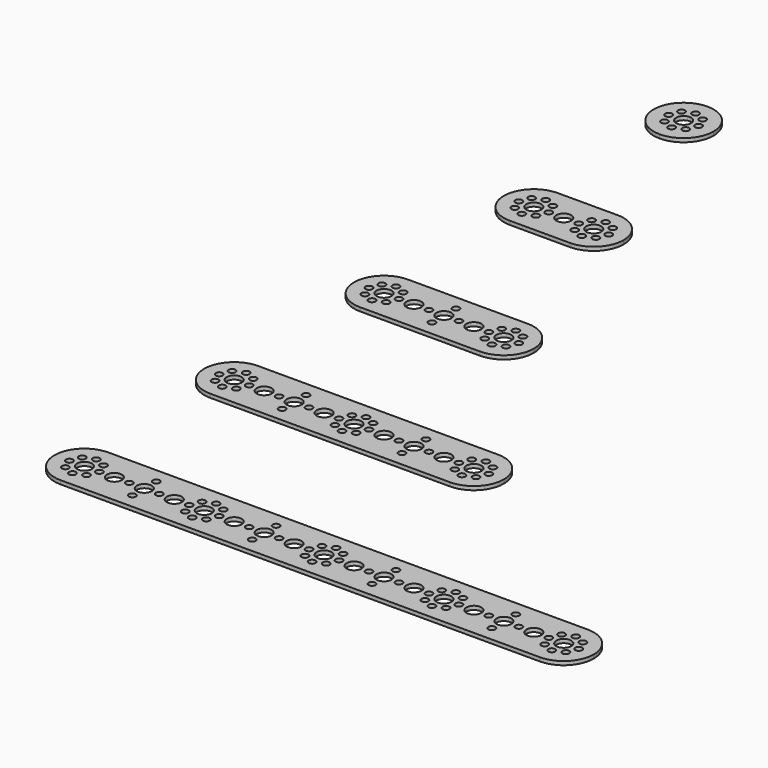
from build123d import *

# Parameters (mm, degrees)
F1_DEPTH  = 2
F3_D      = 8
F4_D      = 3.7
F6_DEPTH  = 2
F8_D      = 3.7
F9_D      = 8
F11_DEPTH = 2
F13_D     = 8
F14_D     = 3.7
F16_DEPTH = 2
F18_D     = 8
F19_D     = 3.7
F21_DEPTH = 2
F23_D     = 8
F24_D     = 3.7


with BuildPart() as f1:
    # F0 (on Top) → F1 (new body)
    with BuildSketch(Plane.XY):
        with BuildLine():
            ThreePointArc((0, -16), (11.313708, -11.313708), (16, 0))
            ThreePointArc((16, 0), (11.313708, 11.313708), (0, 16))
            ThreePointArc((0, 16), (-16, 0), (0, -16))
        make_face()
        with BuildLine():
            ThreePointArc((32, -16), (20.686292, -11.313708), (16, 0))
            ThreePointArc((16, 0), (11.313708, -11.313708), (0, -16))
            Line((0, -16), (32, -16))
        make_face()
        with BuildLine():
            ThreePointArc((0, 16), (11.313708, 11.313708), (16, 0))
            ThreePointArc((16, 0), (20.686292, 11.313708), (32, 16))
            Line((32, 16), (0, 16))
        make_face()
        with BuildLine():
            ThreePointArc((32, 16), (20.686292, 11.313708), (16, 0))
            ThreePointArc((16, 0), (20.686292, -11.313708), (32, -16))
            ThreePointArc((32, -16), (43.313708, -11.313708), (48, 0))
            ThreePointArc((48, 0), (43.313708, 11.313708), (32, 16))
        make_face()
    extrude(amount=F1_DEPTH)

    # F3 (through all)
    with Locations(Plane.XY.offset(2)):
        with Locations((32, 0), (16, 0), (0, 0)):
            Hole(F3_D / 2)

    # F4 (through all)
    with Locations(Plane.XY.offset(2)):
        with Locations((37.656854, -5.656854), (32, -8), (26.343146, -5.656854), (24, 0), (26.343146, 5.656854), (32, 8), (37.656854, 5.656854), (32, 0), (8, 0), (5.656854, 5.656854), (0, 8), (-5.656854, 5.656854), (0, 0), (-5.656854, -5.656854), (0, -8), (5.656854, -5.656854), (40, 0), (-8, 0)):
            Hole(F4_D / 2)


with BuildPart() as f6:
    # F5 (on face) → F6 (new body)
    with BuildSketch(Plane(origin=(0, 0, 0), x_dir=(1, 0, 0), z_dir=(0, 0, -1))):
        with BuildLine():
            ThreePointArc((0, -84), (-11.313708, -111.313708), (16, -100))
            ThreePointArc((16, -100), (11.313708, -88.686292), (0, -84))
        make_face()
    extrude(amount=-F6_DEPTH)

    # F8 (through all)
    with Locations(Plane.XY.offset(2)):
        with Locations((0, 108), (5.656854, 105.656854), (8, 100), (5.656854, 94.343146), (0, 92), (-5.656854, 105.656854), (-8, 100), (-5.656854, 94.343146)):
            Hole(F8_D / 2)

    # F9 (through all)
    with Locations(Plane.XY.offset(2)):
        with Locations((0, 100)):
            Hole(F9_D / 2)


with BuildPart() as f11:
    # F10 (on face) → F11 (new body)
    with BuildSketch(Plane(origin=(0, 0, 0), x_dir=(1, 0, 0), z_dir=(0, 0, -1))):
        with BuildLine():
            ThreePointArc((0, 84), (11.313708, 88.686292), (16, 100))
            ThreePointArc((16, 100), (11.313708, 111.313708), (0, 116))
            ThreePointArc((0, 116), (-16, 100), (0, 84))
        make_face()
        with BuildLine():
            ThreePointArc((0, 116), (11.313708, 111.313708), (16, 100))
            ThreePointArc((16, 100), (11.313708, 88.686292), (0, 84))
            Line((0, 84), (64, 84))
            ThreePointArc((64, 84), (48, 100), (64, 116))
            Line((64, 116), (0, 116))
        make_face()
        with BuildLine():
            ThreePointArc((80, 100), (75.313708, 111.313708), (64, 116))
            ThreePointArc((64, 116), (48, 100), (64, 84))
            ThreePointArc((64, 84), (75.313708, 88.686292), (80, 100))
        make_face()
    extrude(amount=-F11_DEPTH)

    # F13 (through all)
    with Locations(Plane.XY.offset(2)):
        with Locations((0, -100), (16, -100), (32, -100), (64, -100), (48, -100)):
            Hole(F13_D / 2)

    # F14 (through all)
    with Locations(Plane.XY.offset(2)):
        with Locations((-5.656854, -94.343146), (0, -92), (5.656854, -94.343146), (8, -100), (5.656854, -105.656854), (0, -108), (-5.656854, -105.656854), (-8, -100), (24, -100), (32, -92), (32, -108), (40, -100), (56, -100), (58.343146, -105.656854), (64, -108), (69.656854, -105.656854), (72, -100), (69.656854, -94.343146), (64, -92), (58.343146, -94.343146)):
            Hole(F14_D / 2)


with BuildPart() as f16:
    # F15 (on face) → F16 (new body)
    with BuildSketch(Plane(origin=(0, 0, 0), x_dir=(1, 0, 0), z_dir=(0, 0, -1))):
        with BuildLine():
            ThreePointArc((0, 216), (11.313708, 211.313708), (16, 200))
            ThreePointArc((16, 200), (11.313708, 188.686292), (0, 184))
            Line((0, 184), (128, 184))
            ThreePointArc((128, 184), (112, 200), (128, 216))
            Line((128, 216), (0, 216))
        make_face()
        with BuildLine():
            ThreePointArc((0, 184), (11.313708, 188.686292), (16, 200))
            ThreePointArc((16, 200), (11.313708, 211.313708), (0, 216))
            ThreePointArc((0, 216), (-16, 200), (0, 184))
        make_face()
        with BuildLine():
            ThreePointArc((144, 200), (139.313708, 211.313708), (128, 216))
            ThreePointArc((128, 216), (112, 200), (128, 184))
            ThreePointArc((128, 184), (139.313708, 188.686292), (144, 200))
        make_face()
    extrude(amount=-F16_DEPTH)

    # F18 (through all)
    with Locations(Plane.XY.offset(2)):
        with Locations((0, -200), (16, -200), (32, -200), (48, -200), (64, -200), (80, -200), (96, -200), (112, -200), (128, -200)):
            Hole(F18_D / 2)

    # F19 (through all)
    with Locations(Plane.XY.offset(2)):
        with Locations((0, -192), (5.656854, -194.343146), (8, -200), (5.656854, -205.656854), (0, -208), (-5.656854, -205.656854), (-8, -200), (-5.656854, -194.343146), (24, -200), (32, -192), (40, -200), (32, -208), (58.343146, -194.343146), (64, -192), (69.656854, -194.343146), (72, -200), (69.656854, -205.656854), (64, -208), (58.343146, -205.656854), (56, -200), (88, -200), (96, -192), (104, -200), (96, -208), (120, -200), (122.343146, -194.343146), (128, -192), (133.656854, -194.343146), (136, -200), (133.656854, -205.656854), (128, -208), (122.343146, -205.656854)):
            Hole(F19_D / 2)


with BuildPart() as f21:
    # F20 (on face) → F21 (new body)
    with BuildSketch(Plane(origin=(0, 0, 0), x_dir=(1, 0, 0), z_dir=(0, 0, -1))):
        with BuildLine():
            ThreePointArc((0, 284), (11.313708, 288.686292), (16, 300))
            ThreePointArc((16, 300), (11.313708, 311.313708), (0, 316))
            ThreePointArc((0, 316), (-16, 300), (0, 284))
        make_face()
        with BuildLine():
            ThreePointArc((0, 316), (11.313708, 311.313708), (16, 300))
            ThreePointArc((16, 300), (11.313708, 288.686292), (0, 284))
            Line((0, 284), (256, 284))
            ThreePointArc((256, 284), (240, 300), (256, 316))
            Line((256, 316), (0, 316))
        make_face()
        with BuildLine():
            ThreePointArc((272, 300), (267.313708, 311.313708), (256, 316))
            ThreePointArc((256, 316), (240, 300), (256, 284))
            ThreePointArc((256, 284), (267.313708, 288.686292), (272, 300))
        make_face()
    extrude(amount=-F21_DEPTH)

    # F23 (through all)
    with Locations(Plane.XY.offset(2)):
        with Locations((0, -300), (16, -300), (32, -300), (48, -300), (64, -300), (80, -300), (96, -300), (112, -300), (128, -300), (144, -300), (160, -300), (176, -300), (192, -300), (208, -300), (224, -300), (240, -300), (256, -300)):
            Hole(F23_D / 2)

    # F24 (through all)
    with Locations(Plane.XY.offset(2)):
        with Locations((0, -292), (5.656854, -294.343146), (8, -300), (5.656854, -305.656854), (0, -308), (-5.656854, -305.656854), (-8, -300), (-5.656854, -294.343146), (24, -300), (32, -292), (32, -308), (40, -300), (58.343146, -294.343146), (56, -300), (58.343146, -305.656854), (64, -308), (72, -300), (69.656854, -305.656854), (69.656854, -294.343146), (64, -292), (88, -300), (96, -292), (104, -300), (96, -308), (120, -300), (122.343146, -294.343146), (128, -292), (133.656854, -294.343146), (136, -300), (133.656854, -305.656854), (128, -308), (122.343146, -305.656854), (152, -300), (160, -292), (168, -300), (160, -308), (184, -300), (186.343146, -294.343146), (192, -292), (197.656854, -294.343146), (200, -300), (197.656854, -305.656854), (192, -308), (186.343146, -305.656854), (216, -300), (224, -292), (224, -308), (232, -300), (248, -300), (250.343146, -294.343146), (256, -292), (261.656854, -294.343146), (264, -300), (261.656854, -305.656854), (256, -308), (250.343146, -305.656854)):
            Hole(F24_D / 2)


solid = Compound([f1.part, f6.part, f11.part, f16.part, f21.part])
